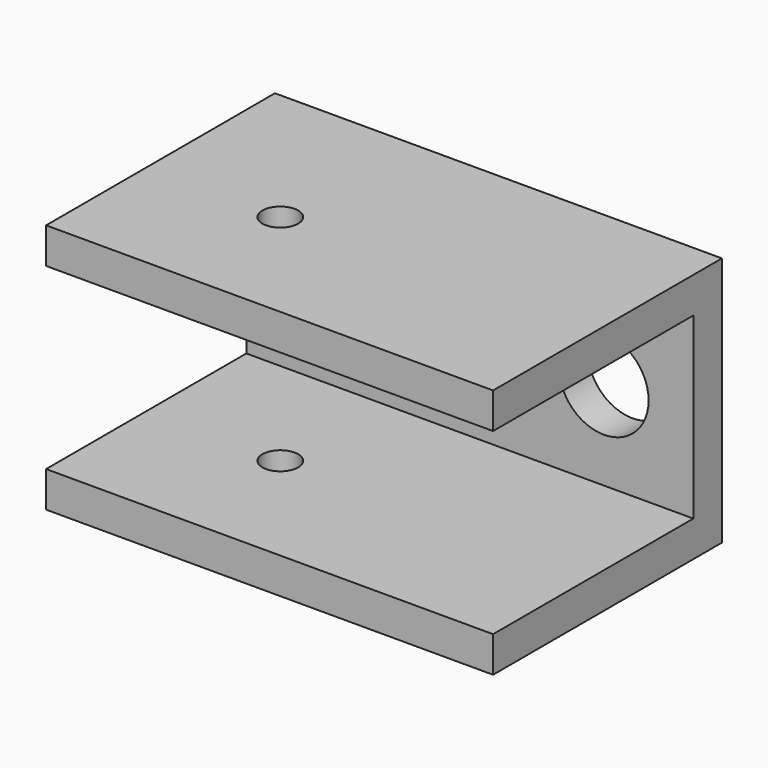
from build123d import *

# Parameters (mm, degrees)
F0_W     = 25
F0_H     = 14
F0_R     = 3
F0_R_2   = 2.5
F1_DEPTH = 16
F2_R     = 1
F3_DEPTH = 25
F4_W     = 14
F4_H     = 10
F5_DEPTH = 25


with BuildPart() as f1:
    # F0 (on Front) → F1 (new body)
    with BuildSketch(Plane.XZ):
        Rectangle(F0_W, F0_H)
        with Locations((-7.5, 0)):
            Circle(F0_R, mode=Mode.SUBTRACT)
        with Locations((7.5, 0)):
            Circle(F0_R_2, mode=Mode.SUBTRACT)
    extrude(amount=F1_DEPTH)

    # F2 (on face) → F3 (cut)
    with BuildSketch(Plane.XY.offset(7)):
        with Locations((-5, -9)):
            Circle(F2_R)
    extrude(amount=-F3_DEPTH, mode=Mode.SUBTRACT)

    # F4 (on face) → F5 (cut)
    with BuildSketch(Plane(origin=(-12.5, 0, 0), x_dir=(0, -1, 0), z_dir=(-1, 0, 0))):
        with Locations((9, 0)):
            Rectangle(F4_W, F4_H)
    extrude(amount=-F5_DEPTH, mode=Mode.SUBTRACT)


solid = f1.part
